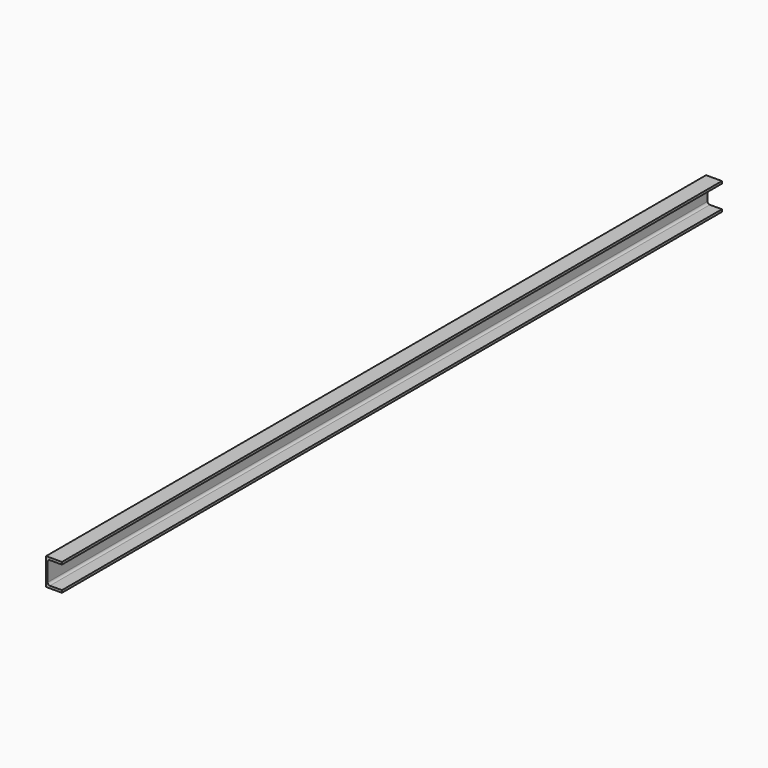
from build123d import *

# Parameters (mm, degrees)
F1_DEPTH = 2311.4


with BuildPart() as f1:
    # F0 (on Front) → F1 (new body)
    with BuildSketch(Plane.XZ):
        with BuildLine():
            Line((-22.225, -38.1), (22.225, -38.1))
            Line((22.225, -38.1), (22.225, -31.496))
            Line((22.225, -31.496), (-11.557, -31.496))
            ThreePointArc((-11.557, -31.496), (-16.047128, -29.636128), (-17.907, -25.146))
            Line((-17.907, -25.146), (-17.907, 25.146))
            ThreePointArc((-17.907, 25.146), (-16.047128, 29.636128), (-11.557, 31.496))
            Line((-11.557, 31.496), (22.225, 31.496))
            Line((22.225, 31.496), (22.225, 38.1))
            Line((22.225, 38.1), (-22.225, 38.1))
            Line((-22.225, 38.1), (-22.225, -38.1))
        make_face()
    extrude(amount=-F1_DEPTH)


solid = f1.part
